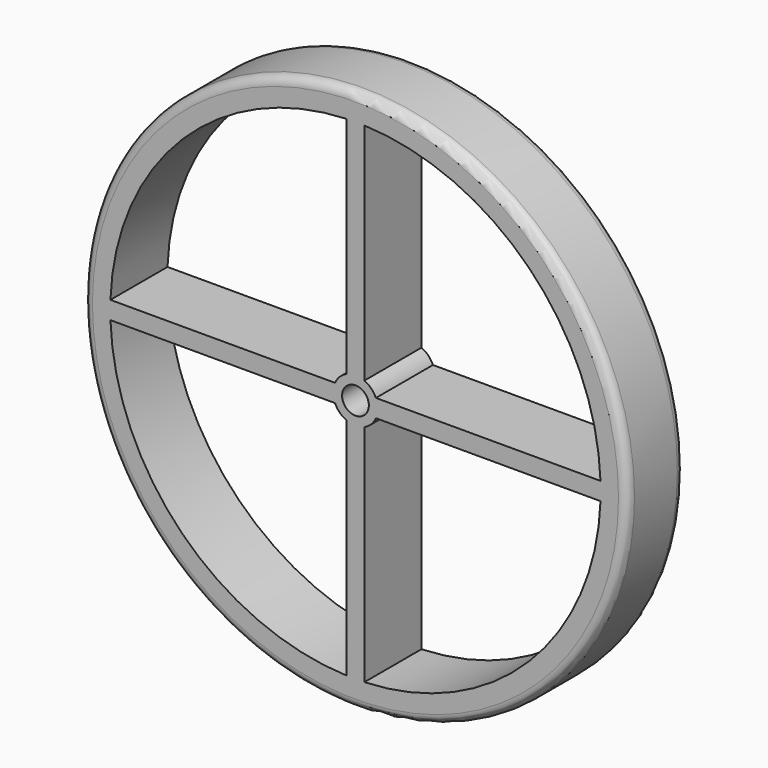
from build123d import *

# Parameters (mm, degrees)
F0_R     = 30.5
F0_R_2   = 1.5000000096
F1_DEPTH = 4
F2_R     = 1


with BuildPart() as f1:
    # F0 (on Front) → F1 (new body, symmetric)
    with BuildSketch(Plane.XZ):
        Circle(F0_R)
        with BuildLine():
            Line((-27.4818121673, -1), (-2.2912878475, -1))
            ThreePointArc((-2.2912878475, -1), (-1.767766953, -1.767766953), (-1, -2.2912878475))
            Line((-1, -2.2912878475), (-1, -27.4818121673))
            ThreePointArc((-1, -27.4818121673), (-19.4454364826, -19.4454364826), (-27.4818121673, -1))
        make_face(mode=Mode.SUBTRACT)
        with BuildLine():
            ThreePointArc((1, -2.2912878475), (1.767766953, -1.767766953), (2.2912878475, -1))
            Line((2.2912878475, -1), (27.4818121673, -1))
            ThreePointArc((27.4818121673, -1), (19.4454364826, -19.4454364826), (1, -27.4818121673))
            Line((1, -27.4818121673), (1, -2.2912878475))
        make_face(mode=Mode.SUBTRACT)
        with BuildLine():
            ThreePointArc((-1, 2.2912878475), (-1.767766953, 1.767766953), (-2.2912878475, 1))
            Line((-2.2912878475, 1), (-27.4818121673, 1))
            ThreePointArc((-27.4818121673, 1), (-19.4454364826, 19.4454364826), (-1, 27.4818121673))
            Line((-1, 27.4818121673), (-1, 2.2912878475))
        make_face(mode=Mode.SUBTRACT)
        Circle(F0_R_2, mode=Mode.SUBTRACT)
        with BuildLine():
            ThreePointArc((1, 27.4818121673), (19.4454364826, 19.4454364826), (27.4818121673, 1))
            Line((27.4818121673, 1), (2.2912878475, 1))
            ThreePointArc((2.2912878475, 1), (1.767766953, 1.767766953), (1, 2.2912878475))
            Line((1, 2.2912878475), (1, 27.4818121673))
        make_face(mode=Mode.SUBTRACT)
    extrude(amount=F1_DEPTH, both=True)

    # F2
    f2_edges = [f1.edges().sort_by_distance(p)[0] for p in [
        (-30.5, -4, 0),
        (-30.5, 4, 0),
    ]]
    fillet(f2_edges, radius=F2_R)


solid = f1.part
